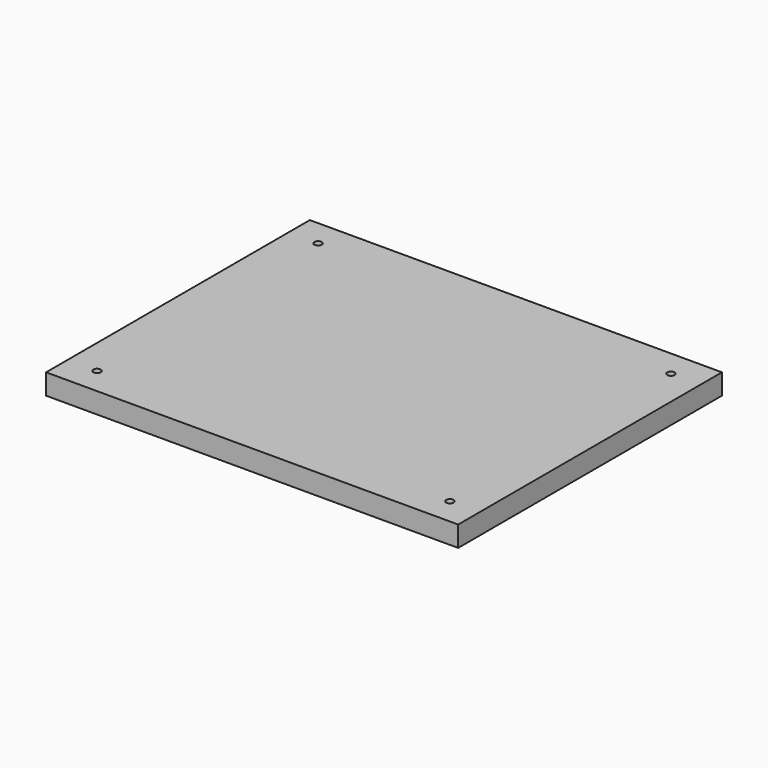
from build123d import *

# Parameters (mm, degrees)
F0_W     = 500
F0_H     = 400
F1_DEPTH = 25
F2_R     = 4.5
F3_DEPTH = 25.001


with BuildPart() as f1:
    # F0 (on Top) → F1 (new body)
    with BuildSketch(Plane.XY):
        Rectangle(F0_W, F0_H)
    extrude(amount=F1_DEPTH)

    # F2 (on face) → F3 (cut, through all)
    with BuildSketch(Plane.XY.offset(25)):
        with Locations((-214.084342, 167.591467)):
            Circle(F2_R)
        with Locations((214.084342, 167.591467)):
            Circle(F2_R)
        with Locations((-214.084342, -167.591467)):
            Circle(F2_R)
        with BuildLine():
            ThreePointArc((218.584342, -167.591467), (214.084342, -163.091467), (209.584342, -167.591467))
            ThreePointArc((209.584342, -167.591467), (214.084342, -172.091467), (218.584342, -167.591467))
        make_face()
    extrude(amount=-F3_DEPTH, mode=Mode.SUBTRACT)


solid = f1.part
